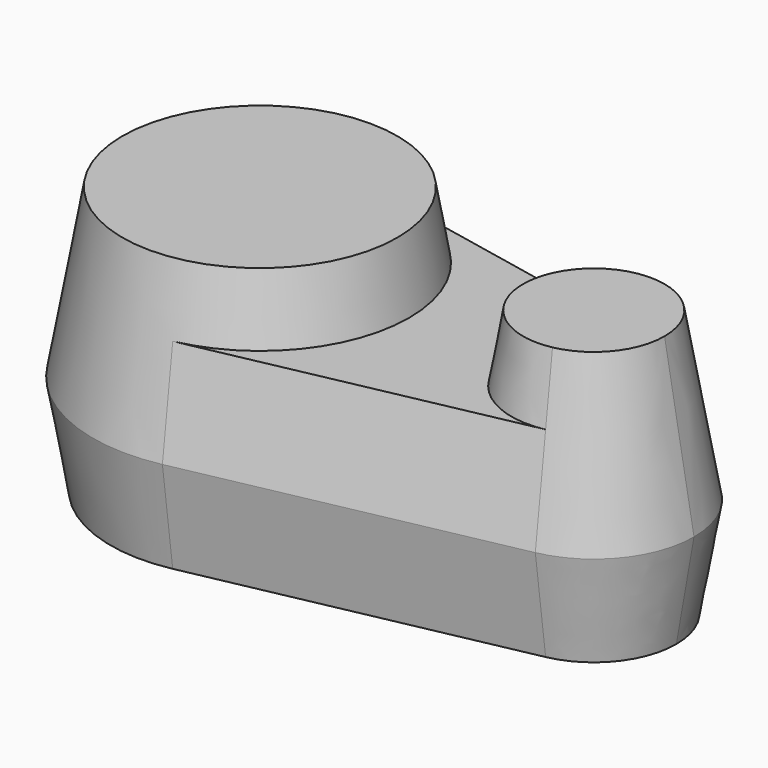
from build123d import *

# Parameters (mm, degrees)
F1_DEPTH = 50
F1_TAPER = 10
F2_DEPTH = 30
F2_TAPER = 10


with BuildPart() as f1:
    # F0 (on Top) → F1 (new body)
    with BuildSketch(Plane.XY):
        with BuildLine():
            ThreePointArc((10, -48.9897948557), (38.7298334621, -31.6227766017), (50, 0))
            ThreePointArc((50, 0), (38.7298334621, 31.6227766017), (10, 48.9897948557))
            ThreePointArc((10, 48.9897948557), (-50, 0), (10, -48.9897948557))
        make_face()
    extrude(amount=F1_DEPTH, taper=F1_TAPER)



with BuildPart() as f1b:
    # F0 (on Top) → F1, piece 2 (new body)
    with BuildSketch(Plane.XY):
        with BuildLine():
            ThreePointArc((130, 0), (123.2379000772, 18.973665961), (106, 29.3938769134))
            ThreePointArc((106, 29.3938769134), (70, 0), (106, -29.3938769134))
            ThreePointArc((106, -29.3938769134), (123.2379000772, -18.973665961), (130, 0))
        make_face()
    extrude(amount=F1_DEPTH, taper=F1_TAPER)


with BuildPart() as f1_1:
    add(f1.part)

    add(f1b.part)  # F2 merges F1b
    # F0 (on Top) → F2 (join, symmetric)
    with BuildSketch(Plane.XY):
        with BuildLine():
            ThreePointArc((10, 48.9897948557), (38.7298334621, 31.6227766017), (50, 0))
            ThreePointArc((50, 0), (38.7298334621, -31.6227766017), (10, -48.9897948557))
            Line((10, -48.9897948557), (106, -29.3938769134))
            ThreePointArc((106, -29.3938769134), (70, 0), (106, 29.3938769134))
            Line((106, 29.3938769134), (10, 48.9897948557))
        make_face()
        with BuildLine():
            ThreePointArc((10, -48.9897948557), (38.7298334621, -31.6227766017), (50, 0))
            ThreePointArc((50, 0), (38.7298334621, 31.6227766017), (10, 48.9897948557))
            ThreePointArc((10, 48.9897948557), (-50, 0), (10, -48.9897948557))
        make_face()
        with BuildLine():
            ThreePointArc((130, 0), (123.2379000772, 18.973665961), (106, 29.3938769134))
            ThreePointArc((106, 29.3938769134), (70, 0), (106, -29.3938769134))
            ThreePointArc((106, -29.3938769134), (123.2379000772, -18.973665961), (130, 0))
        make_face()
    extrude(amount=F2_DEPTH, both=True, taper=F2_TAPER)


solid = f1_1.part
